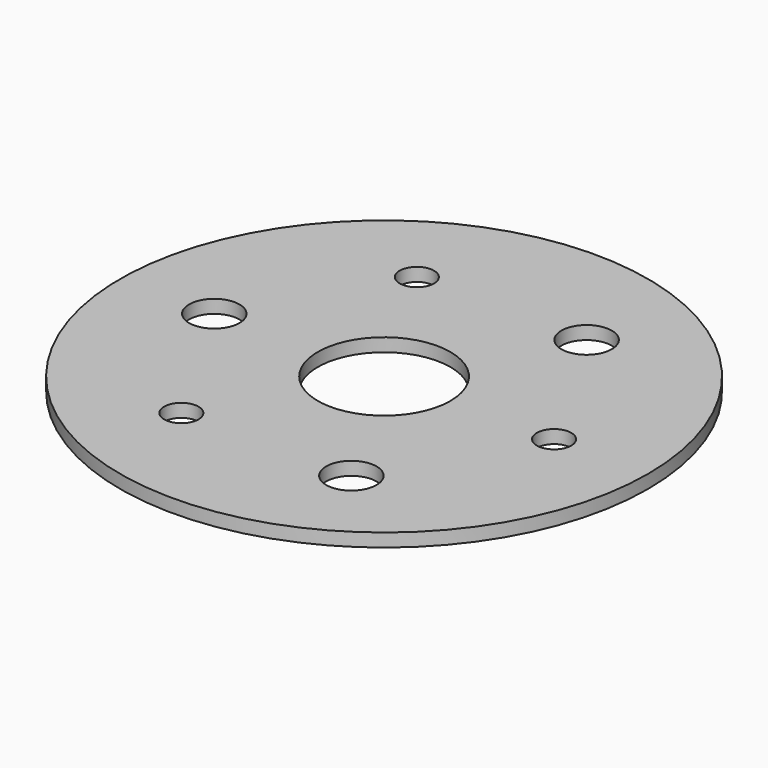
from build123d import *

# Parameters (mm, degrees)
F0_R     = 49.75
F0_R_2   = 3.25
F0_R_3   = 4.75
F0_R_4   = 12.5
F1_DEPTH = 2.5


with BuildPart() as f1:
    # F0 (on Top) → F1 (new body)
    with BuildSketch(Plane.XY):
        Circle(F0_R)
        with Locations((-16.019639, -27.746828)):
            Circle(F0_R_2, mode=Mode.SUBTRACT)
        with Locations((16, -27.712813)):
            Circle(F0_R_3, mode=Mode.SUBTRACT)
        with Locations((-32, 0)):
            Circle(F0_R_3, mode=Mode.SUBTRACT)
        with Locations((-16.019639, 27.746828)):
            Circle(F0_R_2, mode=Mode.SUBTRACT)
        Circle(F0_R_4, mode=Mode.SUBTRACT)
        with Locations((32.039277, 0)):
            Circle(F0_R_2, mode=Mode.SUBTRACT)
        with Locations((16, 27.712813)):
            Circle(F0_R_3, mode=Mode.SUBTRACT)
    extrude(amount=F1_DEPTH)


solid = f1.part
